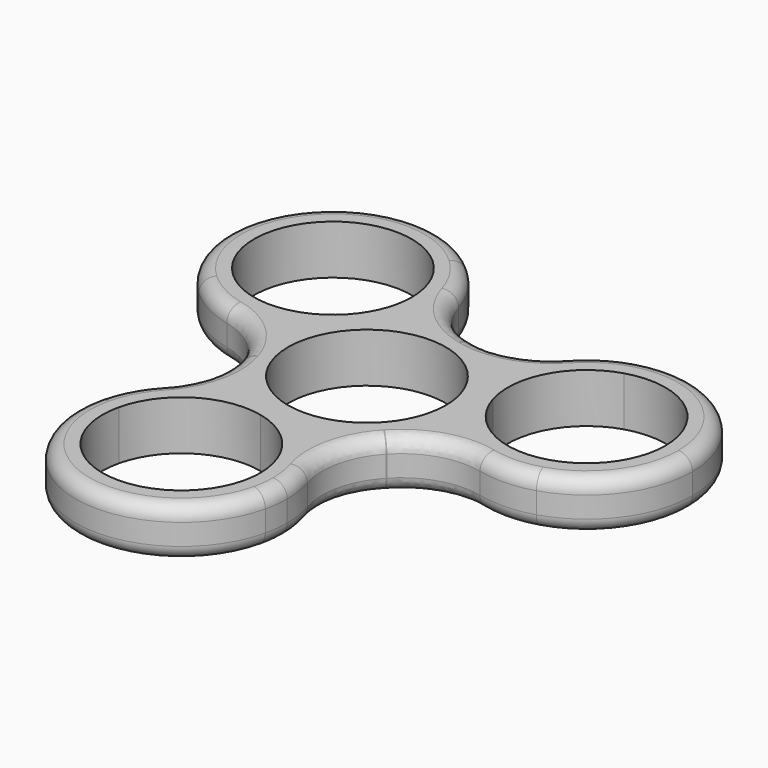
from build123d import *

# Parameters (mm, degrees)
F1_DEPTH = 7
F2_R     = 11.05
F3_R     = 2


with BuildPart() as f1:
    # F0 (on Top) → F1 (new body)
    with BuildSketch(Plane.XY):
        with BuildLine():
            Line((-29.3661902429, 6.9106798233), (-26.7547210267, 9.7054702506))
            ThreePointArc((-26.7547210267, 9.7054702506), (-27.2903065259, 25.5002288171), (-11.4955479594, 26.0358143163))
            Line((-11.4955479594, 26.0358143163), (-8.8840787432, 28.8306047437))
            ThreePointArc((-8.8840787432, 28.8306047437), (-30.0850969532, 28.1116980333), (-29.3661902429, 6.9106798233))
        make_face()
        with BuildLine():
            ThreePointArc((-8.8840787432, 28.8306047437), (-7.4284624052, 23.3593675058), (-4.1505379433, 18.7432579905))
            ThreePointArc((-4.1505379433, 18.7432579905), (-5.5458885142, 24.2427752581), (-8.8840787432, 28.8306047437))
        make_face()
        with BuildLine():
            ThreePointArc((-7.950134493, 17.8706422835), (-8.7297888365, 13.7697382757), (-10.9599624449, 10.2410557662))
            ThreePointArc((-10.9599624449, 10.2410557662), (-8.0191211982, 12.6765016944), (-4.55864289, 14.2905134618))
            ThreePointArc((-4.55864289, 14.2905134618), (-4.2339059667, 16.0675025281), (-4.125134493, 17.8706422835))
            ThreePointArc((-4.125134493, 17.8706422835), (-4.1314867006, 18.3071349831), (-4.1505379433, 18.7432579905))
            ThreePointArc((-4.1505379433, 18.7432579905), (-7.4284624052, 23.3593675058), (-8.8840787432, 28.8306047437))
            Line((-8.8840787432, 28.8306047437), (-11.4955479594, 26.0358143163))
            ThreePointArc((-11.4955479594, 26.0358143163), (-8.8747380491, 22.3214846468), (-7.950134493, 17.8706422835))
        make_face()
        with BuildLine():
            Line((-10.9599624602, 10.2410557498), (-8.1651720328, 7.6295865336))
            ThreePointArc((-8.1651720482, 7.6295865172), (-5.9345336347, 10.7286503348), (-4.55864289, 14.2905134618))
            ThreePointArc((-4.55864289, 14.2905134618), (-8.0191211982, 12.6765016944), (-10.9599624449, 10.2410557662))
        make_face()
        with BuildLine():
            ThreePointArc((-14.566491603, 3.5801288217), (-11.1060132948, 5.1941405891), (-8.1651720482, 7.6295865172))
            Line((-8.1651720328, 7.6295865336), (-10.9599624602, 10.2410557498))
            ThreePointArc((-10.9599624449, 10.2410557662), (-13.1906008584, 7.1419919487), (-14.566491603, 3.5801288217))
        make_face()
        with BuildLine():
            ThreePointArc((-14.566491603, 3.5801288217), (-13.1906008584, 7.1419919487), (-10.9599624449, 10.2410557662))
            ThreePointArc((-10.9599624449, 10.2410557662), (-18.7464183434, 6.7020613943), (-26.7547210267, 9.7054702506))
            Line((-26.7547210267, 9.7054702506), (-29.3661902429, 6.9106798233))
            ThreePointArc((-29.3661902429, 6.9106798233), (-23.8089166804, 5.8290299779), (-18.9813630132, 2.8713313072))
            ThreePointArc((-18.9813630132, 2.8713313072), (-16.7473679558, 3.0603004139), (-14.566491603, 3.5801288217))
        make_face()
        with BuildLine():
            ThreePointArc((-29.3661902429, 6.9106798233), (-24.5627692285, 3.8909381205), (-18.9813630132, 2.8713313072))
            ThreePointArc((-18.9813630132, 2.8713313072), (-23.8089166804, 5.8290299779), (-29.3661902429, 6.9106798233))
        make_face()
        with BuildLine():
            ThreePointArc((-20.5259967429, -22.1091402527), (-16.5155744738, -18.1129209069), (-14.1568685978, -12.9661002935))
            ThreePointArc((-14.1568685978, -12.9661002935), (-18.2219149747, -16.9242679689), (-20.5259967429, -22.1091402527))
        make_face()
        with BuildLine():
            ThreePointArc((-16.7999026264, -22.9733437214), (-11.8261312001, -16.0152567617), (-3.3890332241, -14.6121337869))
            ThreePointArc((-3.3890332241, -14.6121337869), (-6.9686118954, -13.283013523), (-10.096626246, -11.0931572804))
            ThreePointArc((-10.096626246, -11.0931572804), (-12.1969284712, -11.8774874421), (-14.1568685978, -12.9661002935))
            ThreePointArc((-14.1568685978, -12.9661002935), (-16.5155744738, -18.1129209069), (-20.5259967429, -22.1091402527))
            Line((-20.5259967429, -22.1091402527), (-16.7999026264, -22.9733437214))
        make_face()
        with BuildLine():
            Line((-3.3890332108, -14.61213379), (-2.5248297421, -10.8860396735))
            ThreePointArc((-2.5248297678, -10.8860396676), (-6.3240169453, -10.5037820553), (-10.096626246, -11.0931572804))
            ThreePointArc((-10.096626246, -11.0931572804), (-6.9686118954, -13.283013523), (-3.3890332241, -14.6121337869))
        make_face()
        with BuildLine():
            ThreePointArc((4.1827632931, -14.4050161831), (1.0547489248, -12.2151599313), (-2.5248297678, -10.8860396676))
            Line((-2.5248297421, -10.8860396735), (-3.3890332108, -14.61213379))
            ThreePointArc((-3.3890332241, -14.6121337869), (0.4101539724, -14.9943914088), (4.1827632931, -14.4050161831))
        make_face()
        with BuildLine():
            ThreePointArc((9.0861370471, -25.4981734635), (8.5562524418, -21.5464952802), (7.0040356519, -17.8740082215))
            ThreePointArc((7.0040356519, -17.8740082215), (6.8563702999, -23.5336416708), (8.6982708371, -28.8872066743))
            ThreePointArc((8.6982708371, -28.8872066743), (8.9888550349, -27.2037515401), (9.0861370471, -25.4981734635))
        make_face()
        with BuildLine():
            ThreePointArc((4.1827632931, -14.4050161831), (0.4101539724, -14.9943914088), (-3.3890332241, -14.6121337869))
            ThreePointArc((-3.3890332241, -14.6121337869), (2.8352969273, -18.5459920511), (5.2611370471, -25.4981734635))
            ThreePointArc((5.2611370471, -25.4981734635), (5.188661948, -26.7688291305), (4.9721767206, -28.0230032056))
            Line((4.9721767206, -28.0230032056), (8.6982708371, -28.8872066743))
            ThreePointArc((8.6982708371, -28.8872066743), (6.8563702999, -23.5336416708), (7.0040356519, -17.8740082215))
            ThreePointArc((7.0040356519, -17.8740082215), (5.7233860763, -16.0337963032), (4.1827632931, -14.4050161831))
        make_face()
        with BuildLine():
            ThreePointArc((4.9721767206, -28.0230032056), (-8.438692695, -36.384213137), (-16.7999026264, -22.9733437214))
            Line((-16.7999026264, -22.9733437214), (-20.5259967429, -22.1091402527))
            ThreePointArc((-20.5259967429, -22.1091402527), (-9.3028961638, -40.1103072535), (8.6982708371, -28.8872066743))
            Line((8.6982708371, -28.8872066743), (4.9721767206, -28.0230032056))
        make_face()
        with BuildLine():
            ThreePointArc((-10.096626246, -11.0931572804), (-6.3240169453, -10.5037820553), (-2.5248297678, -10.8860396676))
            ThreePointArc((-2.5248297678, -10.8860396676), (-10.6900017755, -3.256453138), (-8.1651720482, 7.6295865172))
            ThreePointArc((-8.1651720482, 7.6295865172), (-11.1060132948, 5.1941405891), (-14.566491603, 3.5801288217))
            ThreePointArc((-14.566491603, 3.5801288217), (-14.994391403, -0.4101541838), (-14.3489955518, -4.3710784317))
            ThreePointArc((-14.3489955518, -4.3710784317), (-12.676501579, -8.0191213807), (-10.096626246, -11.0931572804))
        make_face()
        with BuildLine():
            ThreePointArc((10.6900017813, 3.2564531189), (11.0530854268, 1.6461857571), (11.175, 0))
            ThreePointArc((11.175, 0), (6.9521813967, -8.7491598927), (-2.5248297678, -10.8860396676))
            ThreePointArc((-2.5248297678, -10.8860396676), (1.0547489248, -12.2151599313), (4.1827632931, -14.4050161831))
            ThreePointArc((4.1827632931, -14.4050161831), (7.8523990481, -12.7804471435), (10.9599617846, -10.2410564729))
            ThreePointArc((10.9599617846, -10.2410564729), (13.2830132962, -6.9686123276), (14.655269136, -3.1973561813))
            ThreePointArc((14.655269136, -3.1973561813), (12.2585505672, -0.224868299), (10.6900017813, 3.2564531189))
        make_face()
        with BuildLine():
            Line((14.348995671, 4.3710780401), (10.6900017749, 3.2564531399))
            ThreePointArc((10.6900017813, 3.2564531189), (12.2585505672, -0.224868299), (14.655269136, -3.1973561813))
            ThreePointArc((14.655269136, -3.1973561813), (14.9135682692, -1.6079432452), (15, 0))
            ThreePointArc((15, 0), (14.8363562754, 2.2096453266), (14.3489956708, 4.3710780409))
        make_face()
        with BuildLine():
            ThreePointArc((10.3837283099, 10.8248873614), (10.0512643493, 7.0210193314), (10.6900017813, 3.2564531189))
            Line((10.6900017749, 3.2564531399), (14.348995671, 4.3710780401))
            ThreePointArc((14.3489956708, 4.3710780409), (12.7804468843, 7.8523994701), (10.3837283099, 10.8248873614))
        make_face()
        with BuildLine():
            ThreePointArc((-8.1651720482, 7.6295865172), (2.5248297418, 10.8860396736), (10.6900017813, 3.2564531189))
            ThreePointArc((10.6900017813, 3.2564531189), (10.0512643493, 7.0210193314), (10.3837283099, 10.8248873614))
            ThreePointArc((10.3837283099, 10.8248873614), (7.1419919972, 13.1906008321), (3.3890333402, 14.61213376))
            ThreePointArc((3.3890333402, 14.61213376), (-0.6065117714, 14.9877330998), (-4.55864289, 14.2905134618))
            ThreePointArc((-4.55864289, 14.2905134618), (-5.9345336347, 10.7286503348), (-8.1651720482, 7.6295865172))
        make_face()
        with BuildLine():
            ThreePointArc((10.3837283099, 10.8248873614), (12.7804468843, 7.8523994701), (14.3489956708, 4.3710780409))
            ThreePointArc((14.3489956708, 4.3710780409), (15.1773646024, 12.8838438285), (21.782544306, 18.3175329549))
            Line((21.782544306, 18.3175329549), (20.6679194058, 21.976526851))
            ThreePointArc((20.6679194058, 21.976526851), (16.9525463805, 17.7046116929), (11.9773273614, 15.0026769143))
            ThreePointArc((11.9773273614, 15.0026769143), (11.0239818795, 12.9734958893), (10.3837283099, 10.8248873614))
        make_face()
        with BuildLine():
            ThreePointArc((20.6679194058, 21.976526851), (15.6510358711, 19.3265130789), (11.9773273614, 15.0026769143))
            ThreePointArc((11.9773273614, 15.0026769143), (16.9525463805, 17.7046116929), (20.6679194058, 21.976526851))
        make_face()
        with BuildLine():
            Line((20.6679194058, 21.976526851), (21.782544306, 18.3175329549))
            ThreePointArc((21.782544306, 18.3175329549), (31.6906799835, 16.6072719569), (36.2139974459, 7.62753118))
            ThreePointArc((36.2139974459, 7.62753118), (34.0187382228, 0.9758486424), (28.2954505858, -3.0624705949))
            Line((28.2954505858, -3.0624705949), (29.4100754861, -6.721464491))
            ThreePointArc((29.4100754861, -6.721464491), (37.0923407706, -1.3009017563), (40.0389974459, 7.62753118))
            ThreePointArc((40.0389974459, 7.62753118), (33.9674303823, 19.6808745046), (20.6679194058, 21.976526851))
        make_face()
        with BuildLine():
            ThreePointArc((28.2954505858, -3.0624705949), (19.7826847975, -2.2341016636), (14.3489956708, 4.3710780409))
            ThreePointArc((14.3489956708, 4.3710780409), (14.8363562754, 2.2096453266), (15, 0))
            ThreePointArc((15, 0), (14.9135682692, -1.6079432452), (14.655269136, -3.1973561813))
            ThreePointArc((14.655269136, -3.1973561813), (16.3846700936, -4.6241061832), (18.3074065411, -5.777157697))
            ThreePointArc((18.3074065411, -5.777157697), (23.944036879, -5.2464465989), (29.4100754861, -6.721464491))
            Line((29.4100754861, -6.721464491), (28.2954505858, -3.0624705949))
        make_face()
        with BuildLine():
            ThreePointArc((29.4100754861, -6.721464491), (23.944036879, -5.2464465989), (18.3074065411, -5.777157697))
            ThreePointArc((18.3074065411, -5.777157697), (23.7678034889, -7.3185072892), (29.4100754861, -6.721464491))
        make_face()
    extrude(amount=F1_DEPTH)

    # F2
    f2_edges = [f1.edges().sort_by_distance(p)[0] for p in [
        (-14.566492, 3.580129, 3.5),
        (-10.096626, -11.093157, 3.5),
        (10.383728, 10.824887, 3.5),
        (-4.558643, 14.290513, 3.5),
        (14.655269, -3.197356, 3.5),
        (4.182763, -14.405016, 3.5),
    ]]
    fillet(f2_edges, radius=F2_R)

    # F3
    f3_edges = [f1.edges().sort_by_distance(p)[0] for p in [
        (-30.085097, 28.111698, 7),
        (-30.085097, 28.111698, 0),
    ]]
    fillet(f3_edges, radius=F3_R)


solid = f1.part
